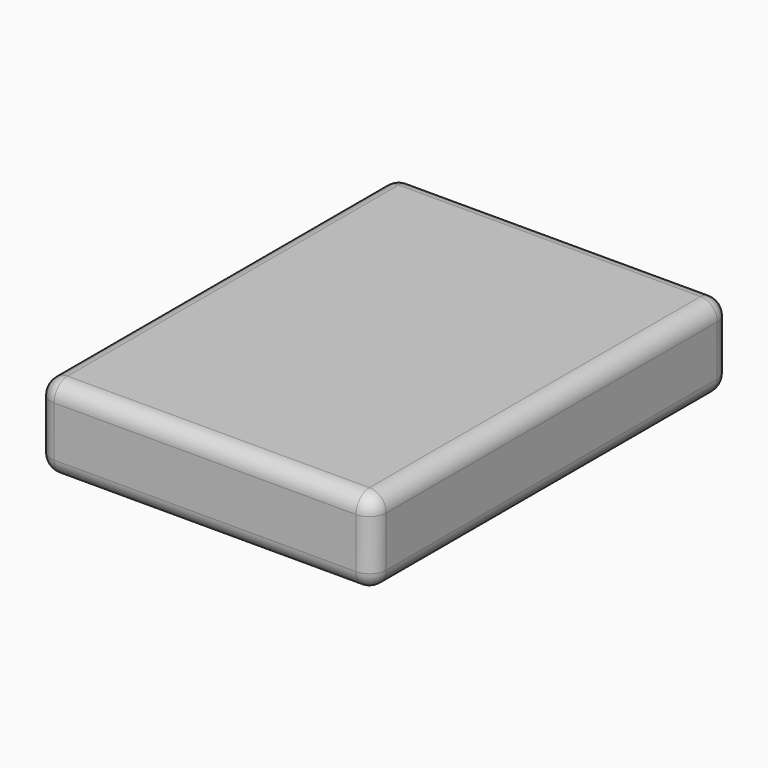
from build123d import *

# Parameters (mm, degrees)
F0_W     = 600
F0_H     = 800
F1_DEPTH = 150
F2_R     = 30


with BuildPart() as f1:
    # F0 (on Top) → F1 (new body)
    with BuildSketch(Plane.XY):
        Rectangle(F0_W, F0_H)
    extrude(amount=-F1_DEPTH)

    # F2
    f2_edges = [f1.edges().sort_by_distance(p)[0] for p in [
        (300, 400, -75),
        (-300, 400, -75),
        (0, 400, 0),
        (0, 400, -150),
        (-300, -400, -75),
        (-300, 0, 0),
        (-300, 0, -150),
        (0, -400, 0),
        (300, 0, 0),
        (300, -400, -75),
        (0, -400, -150),
        (300, 0, -150),
    ]]
    fillet(f2_edges, radius=F2_R)


solid = f1.part
